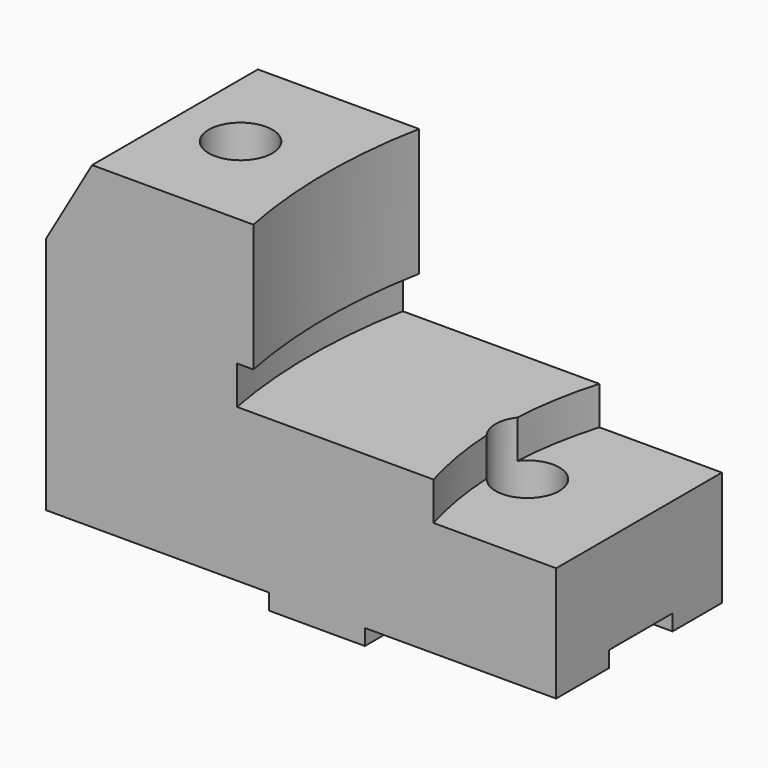
from build123d import *

# Parameters (mm, degrees)
SKETCH_W        = 160
SKETCH_H        = 65
PAD_DEPTH       = 100
POCKET_DEPTH    = 65.001
SKETCH002_R     = 4.5
POCKET001_DEPTH = 100.001
SKETCH003_R     = 10
POCKET002_DEPTH = 30
SKETCH004_R     = 170
POCKET003_DEPTH = 40
SKETCH005_R     = 175
POCKET004_DEPTH = 12
SKETCH006_R     = 115
POCKET005_DEPTH = 12
SKETCH007_R     = 4.5
POCKET006_DEPTH = 36.001
SKETCH008_R     = 10
POCKET009_DEPTH = 30
SKETCH009_W     = 30
SKETCH009_H     = 14.232688
PAD001_DEPTH    = 65
SKETCH010_W     = 25
SKETCH010_H     = 15.667085
POCKET010_DEPTH = 160.001


with BuildPart() as part:
    # Sketch → Pad (new body)
    with BuildSketch(Plane.XY):
        Rectangle(SKETCH_W, SKETCH_H)
    extrude(amount=PAD_DEPTH)

    # Sketch001 → Pocket (cut, through all)
    with BuildSketch(Plane.XZ.offset(32.5)):
        Polygon((-80, 100), (-80, 75), (-65.566243, 100), align=None)
    extrude(amount=-POCKET_DEPTH, mode=Mode.SUBTRACT)

    # Sketch002 → Pocket001 (cut, through all)
    with BuildSketch(Plane.XY.offset(100)):
        with Locations((-45, 0)):
            Circle(SKETCH002_R)
    extrude(amount=-POCKET001_DEPTH, mode=Mode.SUBTRACT)

    # Sketch003 → Pocket002 (cut)
    with BuildSketch(Plane.XY.offset(100)):
        with Locations((-45, 0)):
            Circle(SKETCH003_R)
    extrude(amount=-POCKET002_DEPTH, mode=Mode.SUBTRACT)

    # Sketch004 → Pocket003 (cut)
    with BuildSketch(Plane.XY.offset(100)):
        with Locations((151.864466, 0)):
            Circle(SKETCH004_R)
    extrude(amount=-POCKET003_DEPTH, mode=Mode.SUBTRACT)

    # Sketch005 → Pocket004 (cut)
    with BuildSketch(Plane.XY.offset(60)):
        with Locations((151.864466, 0)):
            Circle(SKETCH005_R)
    extrude(amount=-POCKET004_DEPTH, mode=Mode.SUBTRACT)

    # Sketch006 → Pocket005 (cut)
    with BuildSketch(Plane.XY.offset(48)):
        with Locations((151.864466, 0)):
            Circle(SKETCH006_R)
    extrude(amount=-POCKET005_DEPTH, mode=Mode.SUBTRACT)

    # Sketch007 → Pocket006 (cut, through all)
    with BuildSketch(Plane.XY.offset(36)):
        with Locations((45, 0)):
            Circle(SKETCH007_R)
    extrude(amount=-POCKET006_DEPTH, mode=Mode.SUBTRACT)

    # Sketch008 → Pocket009 (cut, symmetric)
    with BuildSketch(Plane.XY.offset(36)):
        with Locations((45, 0)):
            Circle(SKETCH008_R)
    extrude(amount=POCKET009_DEPTH, both=True, mode=Mode.SUBTRACT)

    # Sketch009 → Pad001 (new body)
    with BuildSketch(Plane.XZ.offset(32.5)):
        with Locations((5, 2.116344)):
            Rectangle(SKETCH009_W, SKETCH009_H)
    extrude(amount=-PAD001_DEPTH)

    # Sketch010 → Pocket010 (cut, through all)
    with BuildSketch(Plane.YZ.offset(80)):
        with Locations((0.638302, -2.833543)):
            Rectangle(SKETCH010_W, SKETCH010_H)
    extrude(amount=-POCKET010_DEPTH, mode=Mode.SUBTRACT)


solid = part.part
